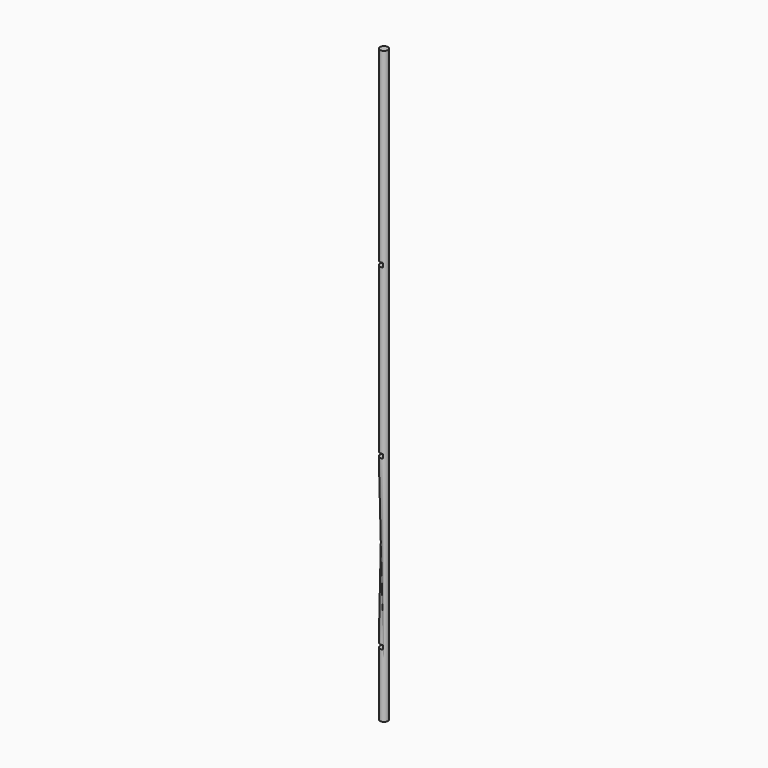
from build123d import *

# Parameters (mm, degrees)
F0_R     = 3.175
F1_DEPTH = 228.6
F2_W     = 50.8
F2_H     = 3.2004
F3_DEPTH = 12.7


with BuildPart() as f1:
    # F0 (on Top) → F1 (new body, symmetric)
    with BuildSketch(Plane.XY):
        Circle(F0_R)
    extrude(amount=F1_DEPTH, both=True)

    # F2 (on Front) → F3 (cut, symmetric)
    with BuildSketch(Plane.XZ):
        with Locations((-23.8125, -177.8)):
            Rectangle(F2_W, F2_H)
        with Locations((-23.8125, -47.5996)):
            Rectangle(F2_W, F2_H)
        with Locations((-23.8125, 82.6008)):
            Rectangle(F2_W, F2_H)
    extrude(amount=F3_DEPTH, both=True, mode=Mode.SUBTRACT)


solid = f1.part
